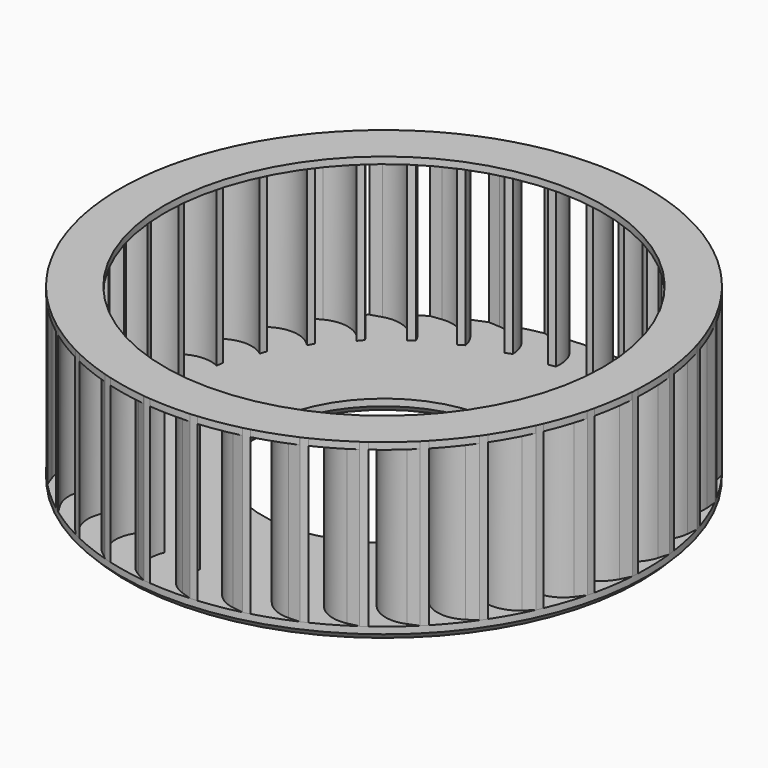
from build123d import *

# Parameters (mm, degrees)
SKETCH015_R           = 19.5
SKETCH015_R_2         = 9
PAD008_DEPTH          = 1
PAD009_DEPTH          = 12
POLARPATTERN001_COUNT = 35
SKETCH_R              = 19.5
SKETCH_R_2            = 16.2
PAD_DEPTH             = 0.5
CHAMFER004008_SIZE    = 0.5


with BuildPart() as part:
    # Sketch015 (on DatumPlane) → Pad008 (new body)
    with BuildSketch(Plane.XY):
        Circle(SKETCH015_R)
        Circle(SKETCH015_R_2, mode=Mode.SUBTRACT)
    extrude(amount=PAD008_DEPTH)

    # Sketch016 (on DatumPlane) → Pad009 (join)
    with BuildSketch(Plane.XY.offset(1)):
        with BuildLine():
            Line((0, 19.5), (0.740463, 19.174959))
            ThreePointArc((2.042404, 16.151377), (1.986998, 17.919615), (0.740463, 19.174959))
            Line((2.042404, 16.151377), (2.542404, 16.151377))
            ThreePointArc((2.542404, 16.151377), (2.486998, 17.919615), (1.240463, 19.174959))
            Line((0.5, 19.5), (1.240463, 19.174959))
            Line((0, 19.5), (0.5, 19.5))
        make_face()
    pad009 = extrude(amount=PAD009_DEPTH)

    # PolarPattern001: Pad009 ×35 about axis
    polarpattern001_axis = Axis((0, 0, 1), (0, 0, 1))
    for i in range(1, POLARPATTERN001_COUNT):
        add(pad009.rotate(polarpattern001_axis, i * 360 / POLARPATTERN001_COUNT))

    # Sketch (on DatumPlane) → Pad (join)
    with BuildSketch(Plane.XY.offset(13)):
        Circle(SKETCH_R)
        Circle(SKETCH_R_2, mode=Mode.SUBTRACT)
    extrude(amount=-PAD_DEPTH)

    # Chamfer004008
    chamfer004008_edges = [part.edges().sort_by_distance(p)[0] for p in [
        (-9, 0, 0),
        (-19.5, 0, 0),
    ]]
    chamfer(chamfer004008_edges, length=CHAMFER004008_SIZE)


with BuildPart() as part_1:
    # Body002002003004 placement: moved
    add(part.part.moved(Location((0, 0, 2))))


solid = part_1.part
